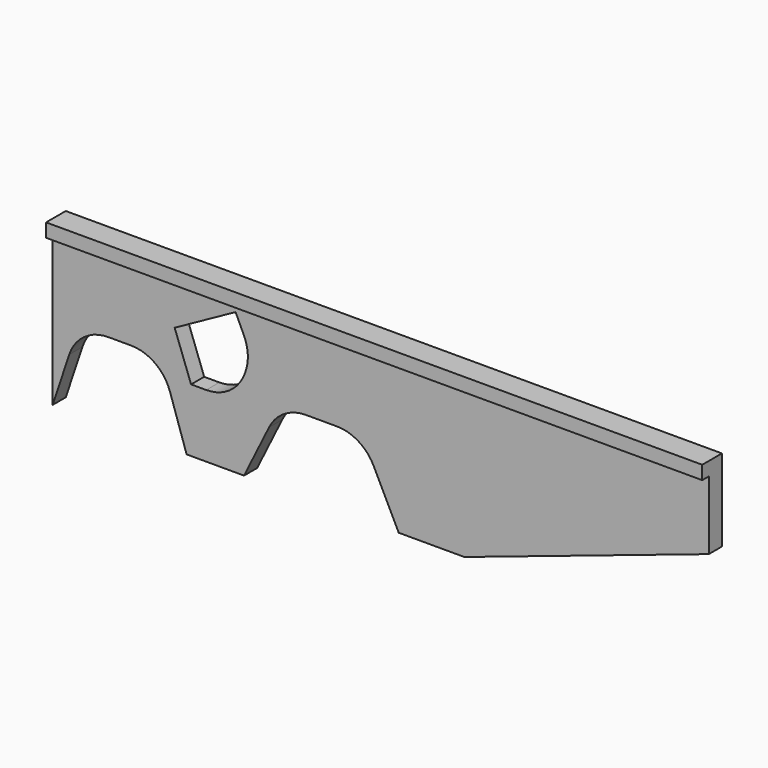
from build123d import *

# Parameters (mm, degrees)
F1_DEPTH = 2.54
F0_W     = 101.6
F0_H     = 2.102348
F2_DEPTH = 3.81


with BuildPart() as f1:
    # F0 (on Front) → F1 (new body)
    with BuildSketch(Plane.XZ):
        with BuildLine():
            Line((54.80154, 8.510839), (-46.79846, 8.510839))
            Line((-46.79846, 8.510839), (-46.79846, -14.786813))
            Line((-46.79846, -14.786813), (-44.225044, -7.079481))
            ThreePointArc((-44.225044, -7.079481), (-41.91353, -3.938234), (-38.201915, -2.740555))
            Line((-38.201915, -2.740555), (-34.650707, -2.740555))
            ThreePointArc((-34.650707, -2.740555), (-30.939092, -3.938234), (-28.627579, -7.079481))
            Line((-28.627579, -7.079481), (-26.054162, -14.786813))
            Line((-26.054162, -14.786813), (-17.164162, -14.786813))
            Line((-17.164162, -14.786813), (-13.286084, -6.93794))
            ThreePointArc((-13.286084, -6.93794), (-10.94426, -4.357103), (-7.593085, -3.400815))
            Line((-7.593085, -3.400815), (-2.783741, -3.400815))
            ThreePointArc((-2.783741, -3.400815), (0.567434, -4.357103), (2.909258, -6.93794))
            Line((2.909258, -6.93794), (6.787336, -14.786813))
            Line((6.787336, -14.786813), (16.947336, -14.786813))
            Line((16.947336, -14.786813), (54.80154, -2.086813))
            Line((54.80154, -2.086813), (54.80154, 8.510839))
        make_face()
        with BuildLine():
            Line((-25.363527, -5.017956), (-27.904684, 1.879466))
            Line((-27.904684, 1.879466), (-18.466104, 7.082785))
            Line((-18.466104, 7.082785), (-17.159839, 4.274316))
            ThreePointArc((-17.159839, 4.274316), (-16.572902, 1.857754), (-16.95904, -0.598903))
            Line((-16.95904, -0.598903), (-17.056407, -0.863186))
            ThreePointArc((-17.056407, -0.863186), (-19.38289, -3.876709), (-23.014886, -5.017956))
            Line((-23.014886, -5.017956), (-25.363527, -5.017956))
        make_face(mode=Mode.SUBTRACT)
    extrude(amount=F1_DEPTH)

    # F0 (on Front) → F2 (join)
    with BuildSketch(Plane.XZ):
        with Locations((4.00154, 9.562013)):
            Rectangle(F0_W, F0_H)
    extrude(amount=F2_DEPTH)


solid = f1.part
